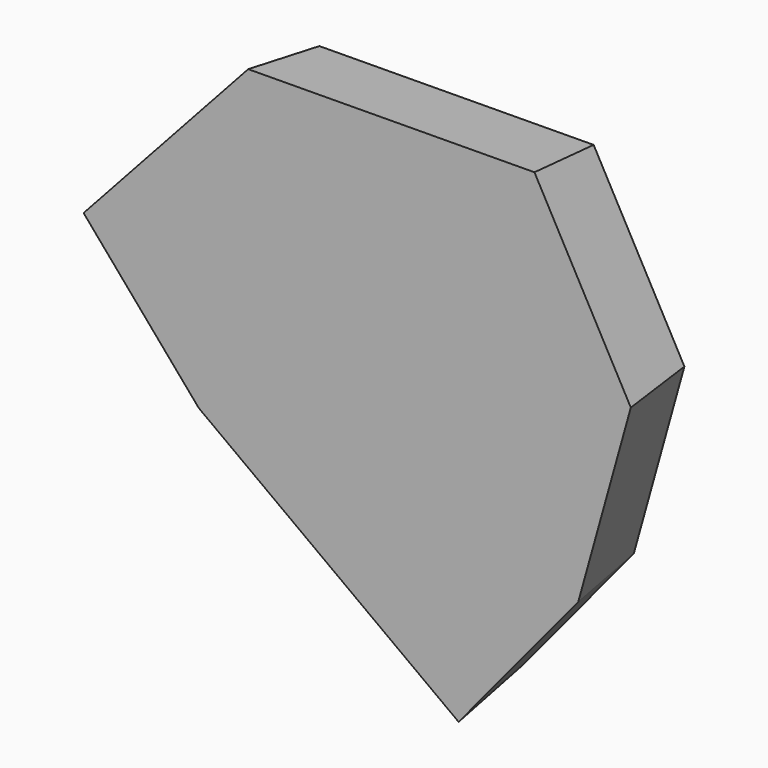
from build123d import *

# Parameters (mm, degrees)
F1_DEPTH = 25.4
F1_TAPER = -8


with BuildPart() as f1:
    # F0 (on Front) → F1 (new body)
    with BuildSketch(Plane.XZ):
        Polygon((12.3641490936, -41.2929281592), (27.9338657856, 14.4328922033), (0, 65.4019266367), (-84.4122841954, 64.7154450417), (-131.8846344948, 12.7549022436), (-98.7608358264, -25.8614197373), (-21.8281522393, -82.6462507248), align=None)
    extrude(amount=F1_DEPTH, taper=F1_TAPER)


solid = f1.part
